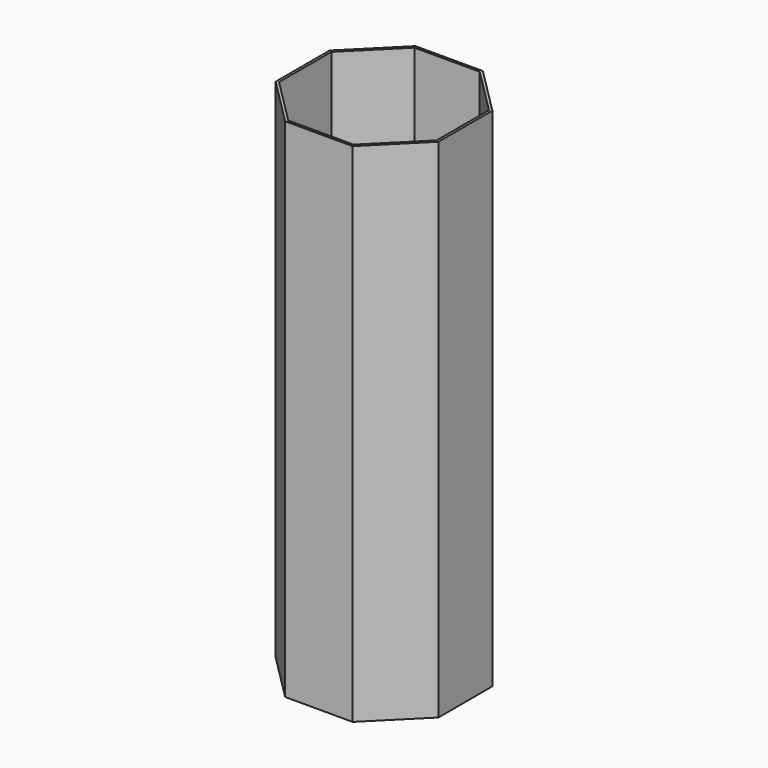
from build123d import *

# Parameters (mm, degrees)
PAD006_DEPTH = 1
PAD005_DEPTH = 98


with BuildPart() as cooler_container_lid001:
    # Sketch007 → Pad006 (new body)
    with BuildSketch(Plane.XY):
        Polygon((15.9, 6.585996), (6.585996, 15.9), (-6.585996, 15.9), (-15.9, 6.585996), (-15.9, -6.585996), (-6.585996, -15.9), (6.585996, -15.9), (15.9, -6.585996), align=None)
    extrude(amount=PAD006_DEPTH)


with BuildPart() as cooler_walls_down:
    # Sketch006 → Pad005 (new body)
    with BuildSketch(Plane.XY):
        Polygon((15.9, 6.585996), (6.585996, 15.9), (-6.585996, 15.9), (-15.9, 6.585996), (-15.9, -6.585996), (-6.585996, -15.9), (6.585996, -15.9), (15.9, -6.585996), align=None)
        Polygon((15.4, 6.378889), (6.378889, 15.4), (-6.378889, 15.4), (-15.4, 6.378889), (-15.4, -6.378889), (-6.378889, -15.4), (6.378889, -15.4), (15.4, -6.378889), align=None, mode=Mode.SUBTRACT)
    extrude(amount=PAD005_DEPTH)


with BuildPart() as cooler_walls_down_1:
    # Body007 placement: moved
    add(cooler_walls_down.part.moved(Location((0, 0, 1))))

    # Fusion: union cooler_container_lid001
    add(cooler_container_lid001.part)


solid = cooler_walls_down_1.part
